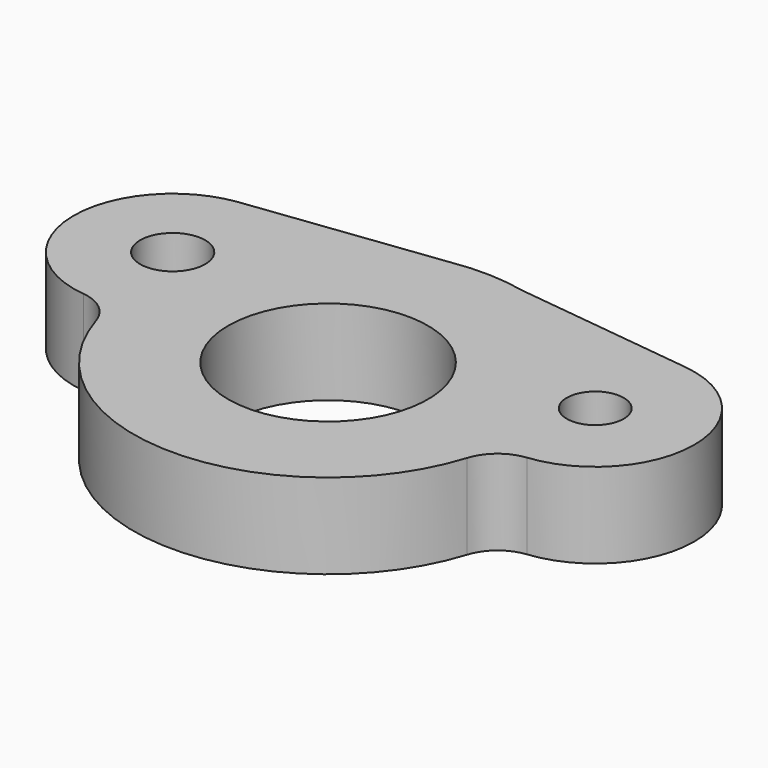
from build123d import *

# Parameters (mm, degrees)
F0_R     = 18.415
F0_R_2   = 4.8496195397
F0_R_3   = 4.2441666503
F1_DEPTH = 12.7
F3_D     = 29.76626


with BuildPart() as f1:
    # F0 (on Top) → F1 (new body)
    with BuildSketch(Plane.XY):
        with BuildLine():
            Line((-4.6540073091, 28.6241194793), (-33.3191207001, 25.0646212284))
            ThreePointArc((-33.3191207001, 25.0646212284), (-46.2615543598, 10.2841751545), (-33.0591896845, -4.2645616346))
            ThreePointArc((-33.0591896845, -4.2645616346), (-29.7057945392, -5.6668927249), (-27.670904164, -8.6787049116))
            ThreePointArc((-27.670904164, -8.6787049116), (2.1523e-05, -28.9999968026), (27.6709446063, -8.6787013664))
            ThreePointArc((27.6709446063, -8.6787013664), (29.7058301505, -5.6668925604), (33.0592181331, -4.2645586129))
            ThreePointArc((33.0592181331, -4.2645586129), (46.2617955785, 10.3150322214), (33.2578877376, 25.07209497))
            Line((33.2578877376, 25.07209497), (6.3209493924, 28.3027565508))
            ThreePointArc((6.3209493924, 28.3027565508), (0.8488186578, 28.9875788164), (-4.6540073091, 28.6241194793))
        make_face()
        Circle(F0_R, mode=Mode.SUBTRACT)
        with Locations((-31.5, 10.415)):
            Circle(F0_R_2, mode=Mode.SUBTRACT)
        with Locations((31.5, 10.415)):
            Circle(F0_R_3, mode=Mode.SUBTRACT)
        Circle(F0_R)
    extrude(amount=F1_DEPTH)

    # F3 (through all)
    with Locations(Plane(origin=(0, 0, 0), x_dir=(1, 0, 0), z_dir=(0, 0, -1))):
        with Locations((0, 0)):
            Hole(F3_D / 2)


solid = f1.part
